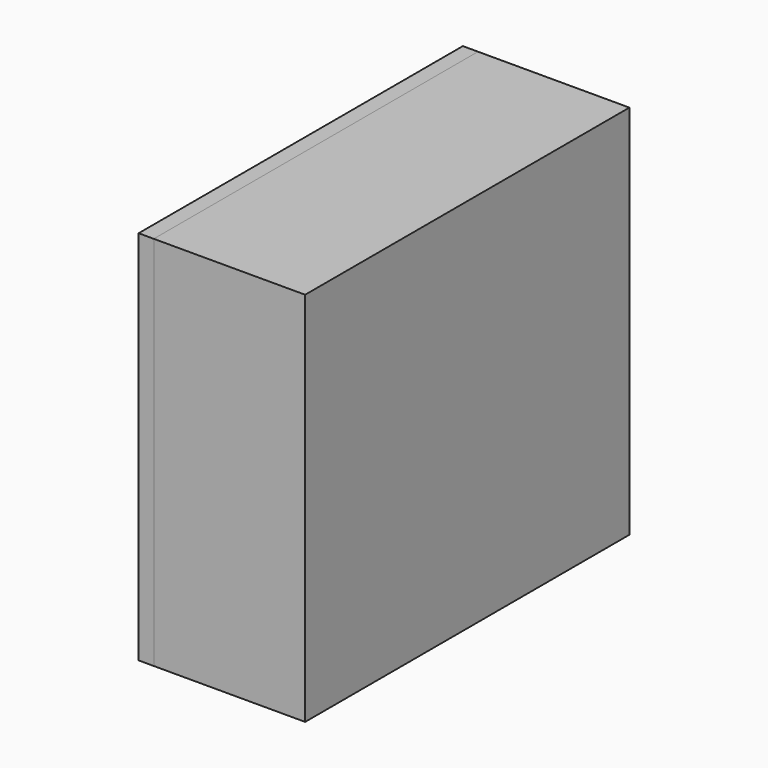
from build123d import *

# Parameters (mm, degrees)
F0_W      = 680.044666
F0_H      = 631.007761
F1_DEPTH  = 25.4
F1_FACE_W = 680.044666
F1_FACE_H = 631.00776
F2_DEPTH  = 254


with BuildPart() as f1:
    # F0 (on Right) → F1 (new body)
    with BuildSketch(Plane.YZ):
        with Locations((-487.176411, -597.711756)):
            Rectangle(F0_W, F0_H)
    extrude(amount=F1_DEPTH)


with BuildPart() as f2:
    # F1_face (on face) → F2 (new body)
    with BuildSketch(Plane(origin=(25.4, -487.176411, -597.711757), x_dir=(0, 1, 0), z_dir=(1, 0, 0))):
        Rectangle(F1_FACE_W, F1_FACE_H)
    extrude(amount=F2_DEPTH)


solid = Compound([f1.part, f2.part])
